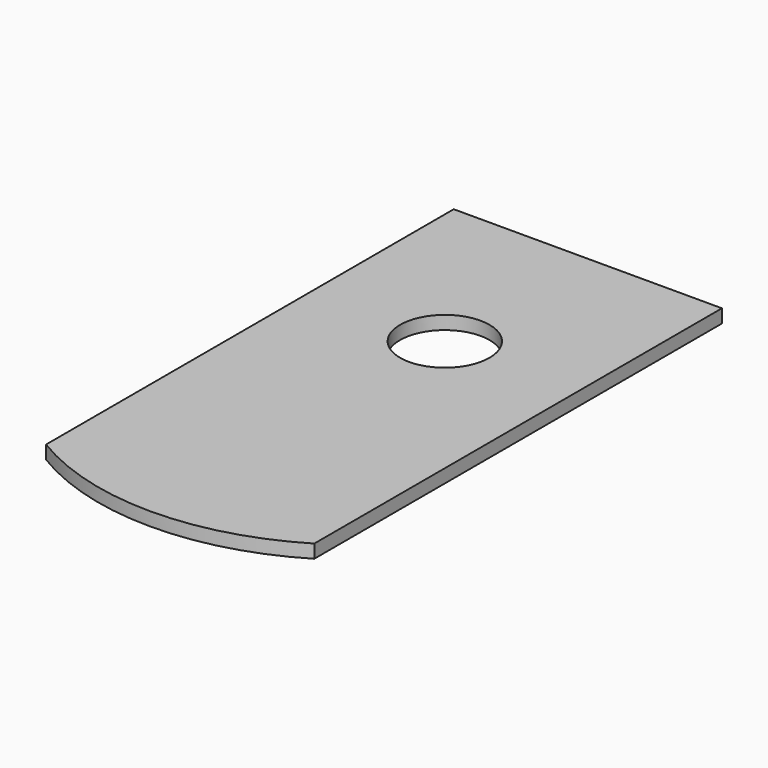
from build123d import *

# Parameters (mm, degrees)
F0_R     = 127
F1_DEPTH = 38.1


with BuildPart() as f1:
    # F0 (on Top) → F1 (new body)
    with BuildSketch(Plane.XY):
        with BuildLine():
            Line((381, -723.9), (381, 723.9))
            Line((381, 723.9), (-381, 723.9))
            Line((-381, 723.9), (-381, -723.9))
            ThreePointArc((-381, -723.9), (0, -830.088579), (381, -723.9))
        make_face()
        with Locations((0, 215.9)):
            Circle(F0_R, mode=Mode.SUBTRACT)
    extrude(amount=F1_DEPTH)


solid = f1.part
